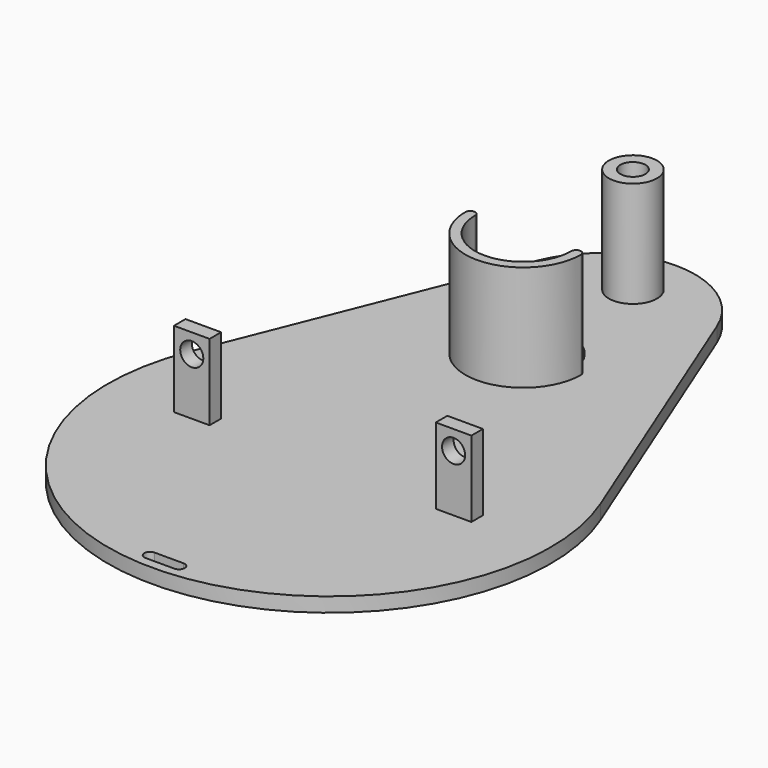
from build123d import *

# Parameters (mm, degrees)
PAD018_DEPTH    = 1.5
SKETCH025_R     = 2.5
SKETCH025_R_2   = 1.3
PAD019_DEPTH    = 11
SKETCH030_R     = 5
POCKET010_DEPTH = 5
PAD022_DEPTH    = 11
SKETCH032_W     = 3.7
SKETCH032_H     = 7.9
SKETCH032_R     = 1.2
PAD023_DEPTH    = 1.5


with BuildPart() as part:
    # Sketch024 (on XY_Plane011 of Origin022) → Pad018 (new body)
    with BuildSketch(Plane.XY):
        with BuildLine():
            ThreePointArc((9.284615, 3.714286), (0, 10), (-9.284615, 3.714286))
            Line((-9.284615, 3.714286), (-21.354615, -26.457143))
            ThreePointArc((-21.354615, -26.457143), (0, -58), (21.354615, -26.457143))
            Line((9.284615, 3.714286), (21.354615, -26.457143))
        make_face()
        with BuildLine():
            ThreePointArc((-1.5, -55.8), (-2.1, -56.4), (-1.5, -57))
            Line((-1.5, -57), (1.5, -57))
            ThreePointArc((1.5, -57), (2.1, -56.4), (1.5, -55.8))
            Line((-1.5, -55.8), (1.5, -55.8))
        make_face(mode=Mode.SUBTRACT)
    extrude(amount=PAD018_DEPTH)

    # Sketch025 (on Face10 of Pad018) → Pad019 (join)
    with BuildSketch(Plane.XY.offset(1.5)):
        with Locations((-0.057612, 4.499631)):
            Circle(SKETCH025_R)
        with Locations((-0.057612, 4.499631)):
            Circle(SKETCH025_R_2, mode=Mode.SUBTRACT)
    extrude(amount=PAD019_DEPTH)

    # Sketch030 (on Face5 of Pad021) → Pocket010 (cut)
    with BuildSketch(Plane.XY.offset(1.5)):
        with Locations((0, -9.825034)):
            Circle(SKETCH030_R)
    extrude(amount=-POCKET010_DEPTH, mode=Mode.SUBTRACT)

    # Sketch031 (on Face5 of Pocket010) → Pad022 (join)
    with BuildSketch(Plane.XY.offset(1.5)):
        with BuildLine():
            ThreePointArc((-6, -9.825034), (0, -15.825034), (6, -9.825034))
            ThreePointArc((6, -9.825034), (5.5, -9.325034), (5, -9.825034))
            ThreePointArc((-5, -9.825034), (0, -14.825034), (5, -9.825034))
            ThreePointArc((-5, -9.825034), (-5.5, -9.325034), (-6, -9.825034))
        make_face()
    pad022 = extrude(amount=PAD022_DEPTH)

    # Mirrored003: Pad022 across Sketch031 V_Axis
    add(pad022.mirror(Plane(origin=(0, 0, 1.5), x_dir=(0, 0, 1), z_dir=(1, 0, 0))))

    # Sketch032 (on Face2 of Binder008) → Pad023 (join)
    with BuildSketch(Plane(origin=(0, -35.550008, 0), x_dir=(-1, 0, 0), z_dir=(0, 1, 0))):
        with Locations((-13.35, 5.45)):
            Rectangle(SKETCH032_W, SKETCH032_H)
        with Locations((-13.35, 7.4)):
            Circle(SKETCH032_R, mode=Mode.SUBTRACT)
        with Locations((13.85, 5.45)):
            Rectangle(SKETCH032_W, SKETCH032_H)
        with Locations((13.85, 7.4)):
            Circle(SKETCH032_R, mode=Mode.SUBTRACT)
    extrude(amount=PAD023_DEPTH)


solid = part.part
